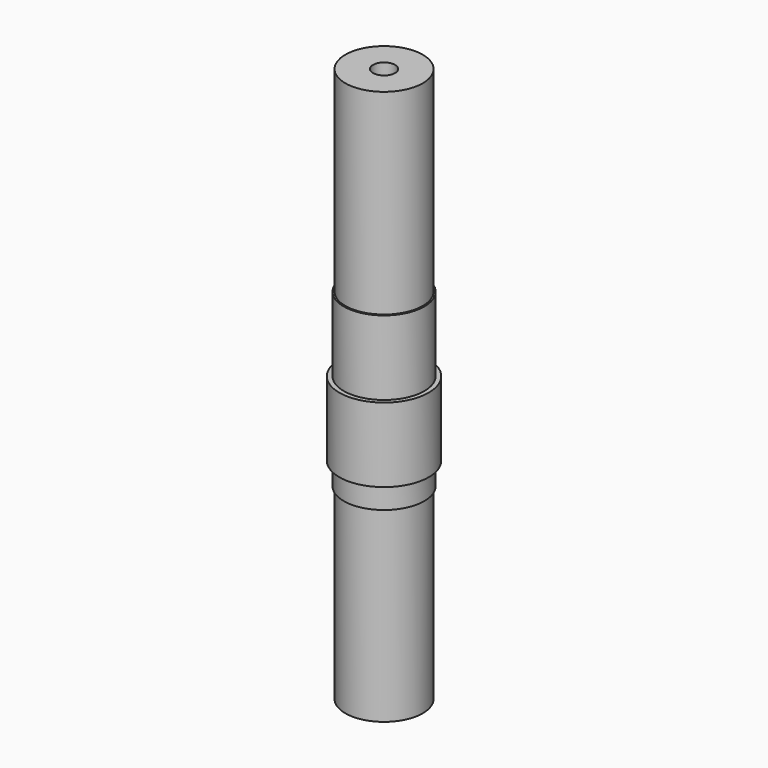
from build123d import *

# Parameters (mm, degrees)
F0_R      = 5.5626
F1_DEPTH  = 26.924
F2_R      = 5.7912
F2_R_2    = 5.5626
F3_DEPTH  = 3.2258
F4_DEPTH  = 3.2258
F6_R      = 6.4262
F6_R_2    = 5.7912
F7_DEPTH  = 10.6934
F8_DEPTH  = 10.6934
F10_R     = 5.7912
F11_DEPTH = 10.6934
F12_R     = 5.5626
F13_DEPTH = 28.1686
F14_R     = 1.5875
F16_DEPTH = 12.7


with BuildPart() as f1:
    # F0 (on Top) → F1 (new body)
    with BuildSketch(Plane.XY):
        Circle(F0_R)
    extrude(amount=F1_DEPTH)

    # F2 (on face) → F3 (join)
    with BuildSketch(Plane.XY.offset(26.924)):
        Circle(F2_R)
        Circle(F2_R_2, mode=Mode.SUBTRACT)
    extrude(amount=F3_DEPTH)

    # F4 (add): a face of the model
    f4_faces = [f1.faces().sort_by_distance(p)[0] for p in [
        (0, 0, 26.924),
    ]]
    extrude(f4_faces, amount=F4_DEPTH)

    # F5: union 

    # F6 (on face) → F7 (join)
    with BuildSketch(Plane.XY.offset(30.1498)):
        Circle(F6_R)
        Circle(F6_R_2, mode=Mode.SUBTRACT)
    extrude(amount=F7_DEPTH)

    # F8 (add): a face of the model
    f8_faces = [f1.faces().sort_by_distance(p)[0] for p in [
        (0, 0, 30.1498),
    ]]
    extrude(f8_faces, amount=F8_DEPTH)

    # F9: union 

    # F10 (on face) → F11 (join)
    with BuildSketch(Plane.XY.offset(40.8432)):
        Circle(F10_R)
    extrude(amount=F11_DEPTH)

    # F12 (on face) → F13 (join)
    with BuildSketch(Plane.XY.offset(51.5366)):
        Circle(F12_R)
    extrude(amount=F13_DEPTH)

    # F14 (on face) → F16 (cut)
    with BuildSketch(Plane.XY.offset(79.7052)):
        Circle(F14_R)
    extrude(amount=-F16_DEPTH, mode=Mode.SUBTRACT)


solid = f1.part
